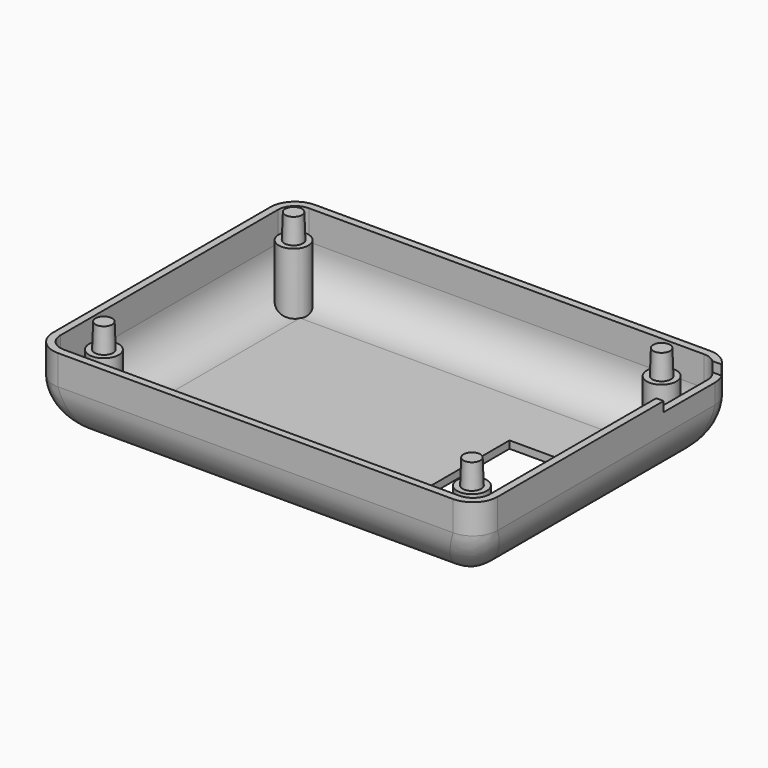
from build123d import *

# Parameters (mm, degrees)
PAD_DEPTH       = 16
FILLET_R        = 10
THICKNESS_T     = -1.5
SKETCH002_W     = 15.5
SKETCH002_H     = 3
POCKET_DEPTH    = 45.001
SKETCH014_R     = 3
PAD005_DEPTH    = 12.5
SKETCH015_R     = 1.875
PAD006_DEPTH    = 5
PAD006_TAPER    = 2
SKETCH021_W     = 11
SKETCH021_H     = 21
POCKET010_DEPTH = 5


with BuildPart() as part:
    # Sketch001 → Pad (new body)
    with BuildSketch(Plane.XY.offset(2)):
        with BuildLine():
            Line((-45, 27.5), (-45, -27.5))
            ThreePointArc((-45, -27.5), (-43.535534, -31.035534), (-40, -32.5))
            Line((-40, -32.5), (40, -32.5))
            ThreePointArc((40, -32.5), (43.535534, -31.035534), (45, -27.5))
            Line((45, -27.5), (45, 27.5))
            ThreePointArc((45, 27.5), (43.535534, 31.035534), (40, 32.5))
            Line((40, 32.5), (-40, 32.5))
            ThreePointArc((-40, 32.5), (-43.535534, 31.035534), (-45, 27.5))
        make_face()
    extrude(amount=-PAD_DEPTH)

    # Fillet
    fillet_edges = [part.edges().sort_by_distance(p)[0] for p in [
        (0, -32.5, -14),
    ]]
    fillet(fillet_edges, radius=FILLET_R)

    # Thickness
    thickness_openings = [part.faces().sort_by_distance(p)[0] for p in [
        (0, 0, 2),
    ]]
    offset(amount=THICKNESS_T, openings=thickness_openings)

    # Sketch002 → Pocket (cut, through all)
    with BuildSketch(Plane.YZ):
        with Locations((22.25, 1.5)):
            Rectangle(SKETCH002_W, SKETCH002_H)
    extrude(amount=POCKET_DEPTH, mode=Mode.SUBTRACT)

    # Sketch014 (on Face38 of Pocket) → Pad005 (join)
    with BuildSketch(Plane.XY.offset(-12.5)):
        with Locations((-37.5, 24)):
            Circle(SKETCH014_R)
        with Locations((37, 24)):
            Circle(SKETCH014_R)
        with Locations((37, -24)):
            Circle(SKETCH014_R)
        with Locations((-37.5, -24)):
            Circle(SKETCH014_R)
    extrude(amount=PAD005_DEPTH)

    # Sketch015 (on Face48 of Pad005) → Pad006 (join)
    with BuildSketch(Plane.XY):
        with Locations((-37.5, 24)):
            Circle(SKETCH015_R)
        with Locations((37, 24)):
            Circle(SKETCH015_R)
        with Locations((37, -24)):
            Circle(SKETCH015_R)
        with Locations((-37.5, -24)):
            Circle(SKETCH015_R)
    extrude(amount=PAD006_DEPTH, taper=PAD006_TAPER)

    # Sketch021 (on Face44 of Pad006) → Pocket010 (cut)
    with BuildSketch(Plane.XY.offset(-12.5)):
        with Locations((22.5, 0)):
            Rectangle(SKETCH021_W, SKETCH021_H)
    extrude(amount=-POCKET010_DEPTH, mode=Mode.SUBTRACT)


solid = part.part
